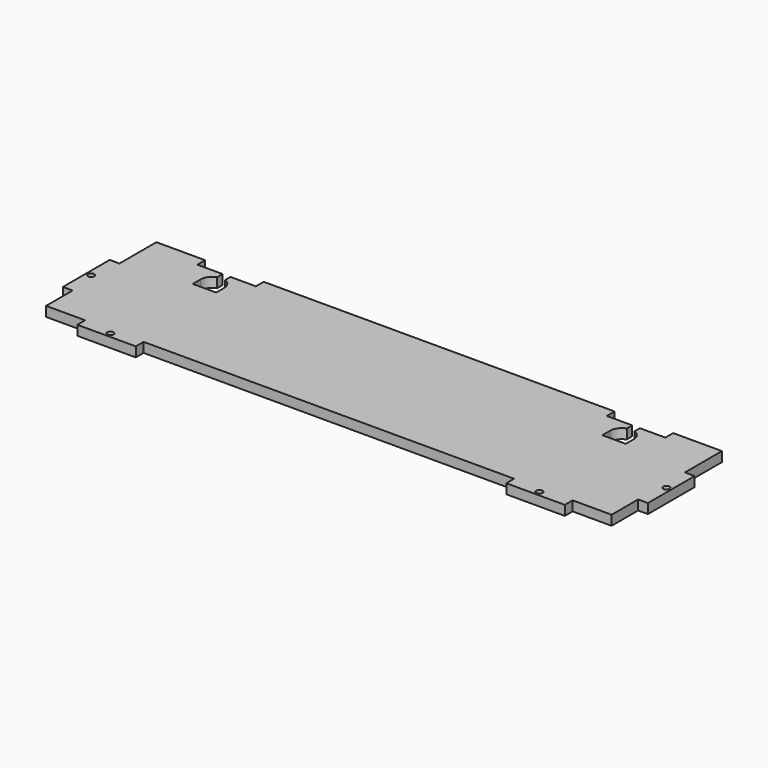
from build123d import *

# Parameters (mm, degrees)
F0_R     = 1.6
F1_DEPTH = 5


with BuildPart() as f1:
    # F0 (on Top) → F1 (new body)
    with BuildSketch(Plane.XY):
        with BuildLine():
            Line((25, 0), (0, 0))
            Line((0, 0), (0, -23.71))
            Line((0, -23.71), (-5, -23.71))
            Line((-5, -23.71), (-5, -53.71))
            Line((-5, -53.71), (0, -53.71))
            Line((0, -53.71), (0, -70.71))
            Line((0, -70.71), (20, -70.71))
            Line((20, -70.71), (20, -75.71))
            Line((20, -75.71), (50, -75.71))
            Line((50, -75.71), (50, -70.71))
            Line((50, -70.71), (240, -70.71))
            Line((240, -70.71), (240, -75.71))
            Line((240, -75.71), (270, -75.71))
            Line((270, -75.71), (270, -70.71))
            Line((270, -70.71), (290, -70.71))
            Line((290, -70.71), (290, -53.71))
            Line((290, -53.71), (295, -53.71))
            Line((295, -53.71), (295, -23.71))
            Line((295, -23.71), (290, -23.71))
            Line((290, -23.71), (290, 0))
            Line((290, 0), (265, 0))
            Line((265, 0), (265, -5))
            Line((265, -5), (252, -5))
            Line((252, -5), (252, -8.5))
            ThreePointArc((252, -8.5), (254.898979, -10.692753), (256, -14.156854))
            Line((256, -14.156854), (256, -19.156854))
            Line((256, -19.156854), (244, -19.156854))
            Line((244, -19.156854), (244, -14.156854))
            ThreePointArc((244, -14.156854), (245.101021, -10.692753), (248, -8.5))
            Line((248, -8.5), (248, -5))
            Line((248, -5), (235, -5))
            Line((235, -5), (235, 0))
            Line((235, 0), (55, 0))
            Line((55, 0), (55, -5))
            Line((55, -5), (42, -5))
            Line((42, -5), (42, -8.5))
            ThreePointArc((42, -8.5), (44.898979, -10.692753), (46, -14.156854))
            Line((46, -14.156854), (46, -19.156854))
            Line((46, -19.156854), (34, -19.156854))
            Line((34, -19.156854), (34, -14.156854))
            ThreePointArc((34, -14.156854), (35.101021, -10.692753), (38, -8.5))
            Line((38, -8.5), (38, -5))
            Line((38, -5), (25, -5))
            Line((25, -5), (25, 0))
        make_face()
        with Locations((35, -73.21)):
            Circle(F0_R, mode=Mode.SUBTRACT)
        with Locations((-2.5, -38.71)):
            Circle(F0_R, mode=Mode.SUBTRACT)
        with Locations((255, -73.21)):
            Circle(F0_R, mode=Mode.SUBTRACT)
        with Locations((292.5, -38.71)):
            Circle(F0_R, mode=Mode.SUBTRACT)
    extrude(amount=F1_DEPTH)


solid = f1.part
